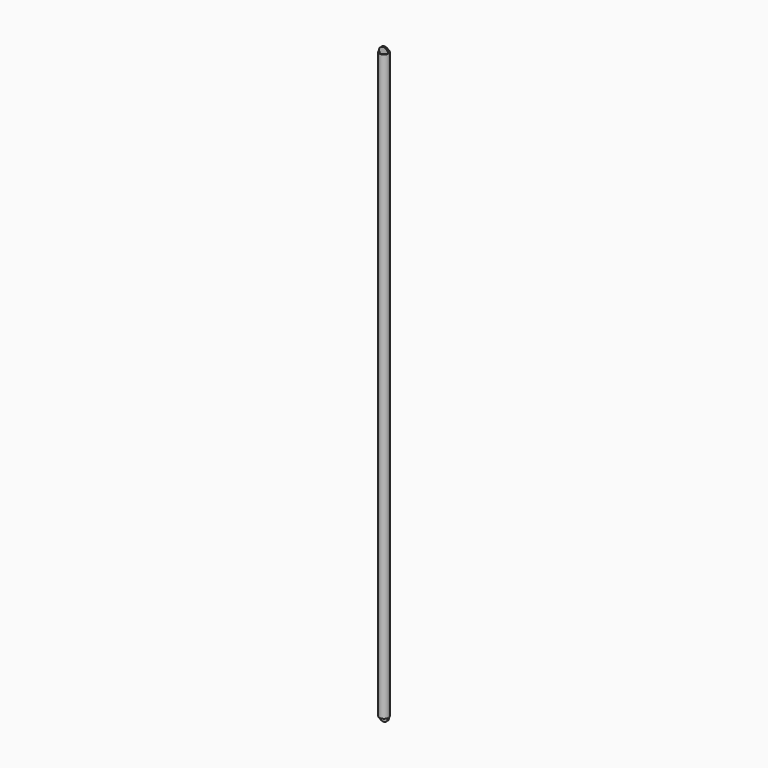
from build123d import *

# Parameters (mm, degrees)
F0_R     = 9.5
F0_R_2   = 7.9
F1_DEPTH = 600
F2_R     = 9.5
F3_DEPTH = 1.6
F4_DEPTH = 1.6


with BuildPart() as f1:
    # F0 (on Top) → F1 (new body)
    with BuildSketch(Plane.XY):
        Circle(F0_R)
        Circle(F0_R_2, mode=Mode.SUBTRACT)
    extrude(amount=F1_DEPTH)

    # F2 (on Front) → F3 (join)
    with BuildSketch(Plane.XZ):
        Circle(F2_R)
    extrude(amount=F3_DEPTH)

    # F3_face (on face) → F4 (join)
    with BuildSketch(Plane(origin=(0, 0, -0.084371), x_dir=(1, 0, 0), z_dir=(0, 1, 0))):
        with BuildLine():
            ThreePointArc((9.5, -0.084371), (0, 9.415629), (-9.5, -0.084371))
            Line((-9.5, -0.084371), (-7.9, -0.084371))
            Line((-7.9, -0.084371), (-7.9, -5.360733))
            ThreePointArc((-7.9, -5.360733), (0, -9.584371), (7.9, -5.360733))
            Line((7.9, -5.360733), (7.9, -0.084371))
            Line((7.9, -0.084371), (9.5, -0.084371))
        make_face()
    extrude(amount=F4_DEPTH)

    # F5: F1 across face


with BuildPart() as f1_1:
    add(f1.part)
    add(f1.part.mirror(Plane.XY.offset(600)))


solid = f1_1.part
